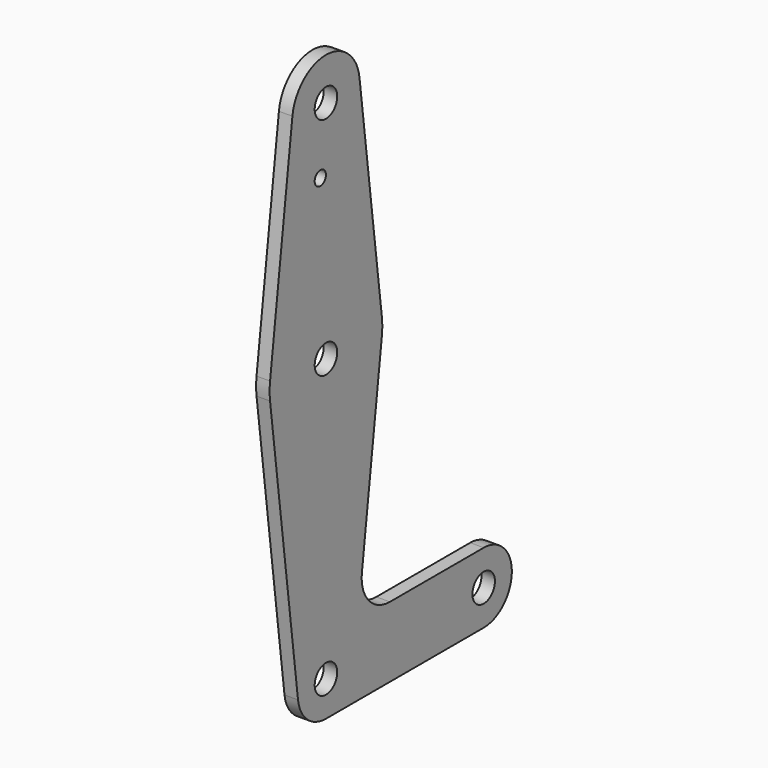
from build123d import *

# Parameters (mm, degrees)
F0_R     = 3.175
F0_R_2   = 1.5875
F1_DEPTH = 3.048


with BuildPart() as f1:
    # F0 (on Right) → F1 (new body)
    with BuildSketch(Plane.YZ):
        with BuildLine():
            ThreePointArc((-9.450293, 115.490625), (-0.596483, 104.793695), (9.525, 114.3))
            ThreePointArc((9.525, 114.3), (9.506305, 114.896483), (9.450293, 115.490625))
            ThreePointArc((9.450293, 115.490625), (0, 123.825), (-9.450293, 115.490625))
        make_face()
        with Locations((0, 114.3)):
            Circle(F0_R, mode=Mode.SUBTRACT)
        with BuildLine():
            ThreePointArc((9.450293, 115.490625), (9.506305, 114.896483), (9.525, 114.3))
            ThreePointArc((9.525, 114.3), (-0.596483, 104.793695), (-9.450293, 115.490625))
            Line((-9.450293, 115.490625), (-15.750488, 65.484375))
            ThreePointArc((-15.750488, 65.484375), (0, 79.375), (15.750488, 65.484375))
            Line((15.750488, 65.484375), (9.450293, 115.490625))
        make_face()
        with Locations((-1.5875, 100.0252)):
            Circle(F0_R_2, mode=Mode.SUBTRACT)
        with BuildLine():
            ThreePointArc((15.875, 63.5), (15.843841, 64.494139), (15.750488, 65.484375))
            ThreePointArc((15.750488, 65.484375), (0, 79.375), (-15.750488, 65.484375))
            ThreePointArc((-15.750488, 65.484375), (-15.875, 63.5), (-15.750488, 61.515625))
            ThreePointArc((-15.750488, 61.515625), (0, 47.625), (15.750488, 61.515625))
            ThreePointArc((15.750488, 61.515625), (15.843841, 62.505861), (15.875, 63.5))
        make_face()
        with Locations((0, 63.5)):
            Circle(F0_R, mode=Mode.SUBTRACT)
        with BuildLine():
            ThreePointArc((15.750488, 61.515625), (0, 47.625), (-15.750488, 61.515625))
            Line((-15.750488, 61.515625), (-7.875244, -0.992188))
            ThreePointArc((-7.875244, -0.992188), (-0.497069, 7.921921), (7.9375, 0))
            ThreePointArc((7.9375, 0), (5.61266, -5.61266), (0, -7.9375))
            Line((0, -7.9375), (44.45, -7.9375))
            ThreePointArc((44.45, -7.9375), (36.5125, 0), (44.45, 7.9375))
            Line((44.45, 7.9375), (18.014958, 7.9375))
            ThreePointArc((18.014958, 7.9375), (12.052308, 10.629137), (10.127114, 16.881475))
            Line((10.127114, 16.881475), (15.750488, 61.515625))
        make_face()
        with BuildLine():
            ThreePointArc((7.9375, 0), (-0.497069, 7.921921), (-7.875244, -0.992188))
            ThreePointArc((-7.875244, -0.992188), (-5.250163, -5.953125), (0, -7.9375))
            ThreePointArc((0, -7.9375), (5.61266, -5.61266), (7.9375, 0))
        make_face()
        Circle(F0_R, mode=Mode.SUBTRACT)
        with BuildLine():
            ThreePointArc((44.45, 7.9375), (36.5125, 0), (44.45, -7.9375))
            ThreePointArc((44.45, -7.9375), (50.06266, -5.61266), (52.3875, 0))
            ThreePointArc((52.3875, 0), (50.06266, 5.61266), (44.45, 7.9375))
        make_face()
        with Locations((44.45, 0)):
            Circle(F0_R, mode=Mode.SUBTRACT)
    extrude(amount=F1_DEPTH)


solid = f1.part
